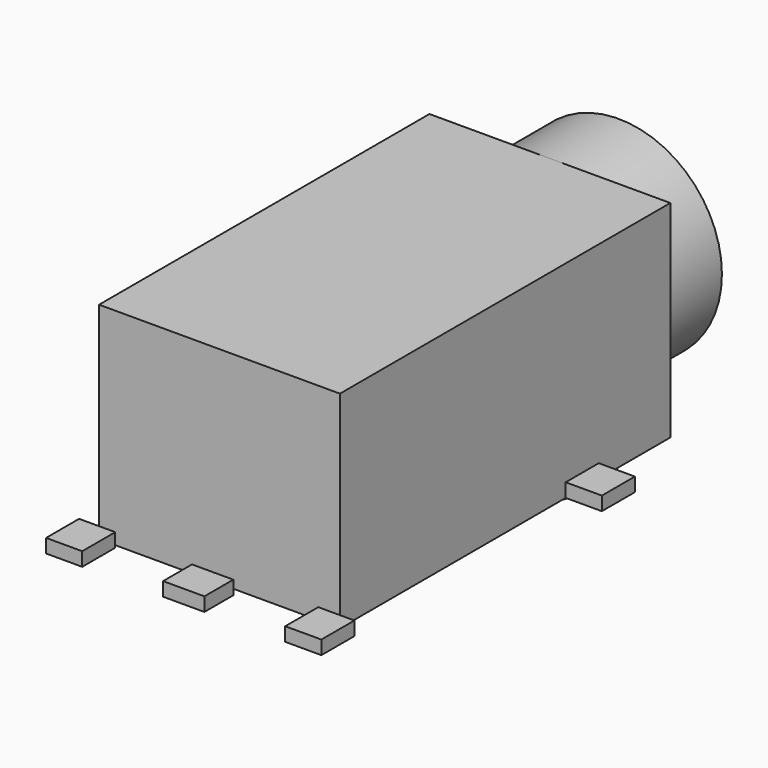
from build123d import *

# Parameters (mm, degrees)
SKETCH_W      = 7
SKETCH_H      = 12
PAD_DEPTH     = 6
SKETCH001_R   = 3
PAD001_DEPTH  = 2.5
SKETCH002_W   = 1.05
SKETCH002_H   = 1.2
SKETCH002_W_2 = 1.2
SKETCH002_H_2 = 1.05
PAD002_DEPTH  = 0.4
SKETCH003_R   = 0.5
PAD003_DEPTH  = 1.1


with BuildPart() as pad:
    # Sketch → Pad (new body)
    with BuildSketch(Plane.XY):
        with Locations((0, -8.5)):
            Rectangle(SKETCH_W, SKETCH_H)
    extrude(amount=PAD_DEPTH)


with BuildPart() as pad001:
    # Sketch001 → Pad001 (new body)
    with BuildSketch(Plane.XZ):
        with Locations((0, 3)):
            Circle(SKETCH001_R)
    extrude(amount=PAD001_DEPTH)


with BuildPart() as pad002:
    # Sketch002 → Pad002 (new body)
    with BuildSketch(Plane.XY):
        with Locations((-4.025, -5.7)):
            Rectangle(SKETCH002_W, SKETCH002_H)
        with Locations((-3.475, -15.2)):
            Rectangle(SKETCH002_W, SKETCH002_H)
        with Locations((0, -15.275)):
            Rectangle(SKETCH002_W_2, SKETCH002_H_2)
        with Locations((3.475, -15.2)):
            Rectangle(SKETCH002_W, SKETCH002_H)
        with Locations((4.025, -5.7)):
            Rectangle(SKETCH002_W, SKETCH002_H)
    extrude(amount=PAD002_DEPTH)


with BuildPart() as pad003:
    # Sketch003 → Pad003 (new body)
    with BuildSketch(Plane.XY):
        with Locations((-1.75, -4.5)):
            Circle(SKETCH003_R)
        with Locations((1.75, -4.5)):
            Circle(SKETCH003_R)
    extrude(amount=-PAD003_DEPTH)


solid = Compound([pad.part, pad001.part, pad002.part, pad003.part])
